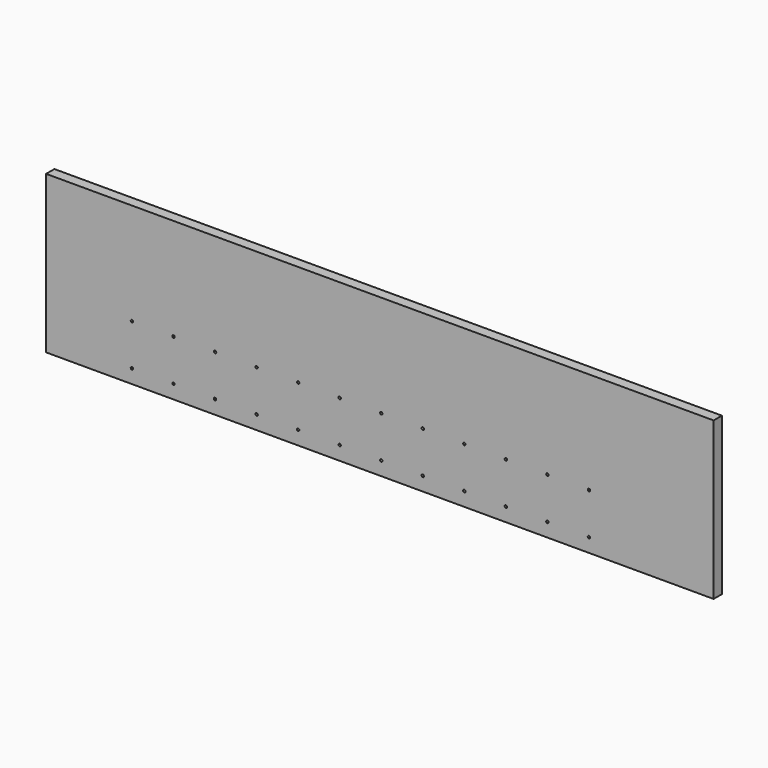
from build123d import *

# Parameters (mm, degrees)
F0_W     = 1224.28
F0_H     = 288.29
F1_DEPTH = 19.05
F3_D     = 4.4958


with BuildPart() as f1:
    # F0 (on Front) → F1 (new body)
    with BuildSketch(Plane.XZ):
        Rectangle(F0_W, F0_H)
    extrude(amount=F1_DEPTH)

    # F3 (through all)
    with Locations(Plane.XZ.offset(19.05)):
        with Locations((383.54, -42.545), (307.34, -42.545), (231.14, -42.545), (154.94, -42.545), (78.74, -42.545), (2.54, -42.545), (-73.66, -42.545), (-149.86, -42.545), (-226.06, -42.545), (-302.26, -42.545), (-378.46, -42.545), (-454.66, -42.545), (-454.66, -118.745), (-378.46, -118.745), (-302.26, -118.745), (-226.06, -118.745), (-149.86, -118.745), (-73.66, -118.745), (2.54, -118.745), (78.74, -118.745), (154.94, -118.745), (231.14, -118.745), (307.34, -118.745), (383.54, -118.745)):
            Hole(F3_D / 2)


solid = f1.part
